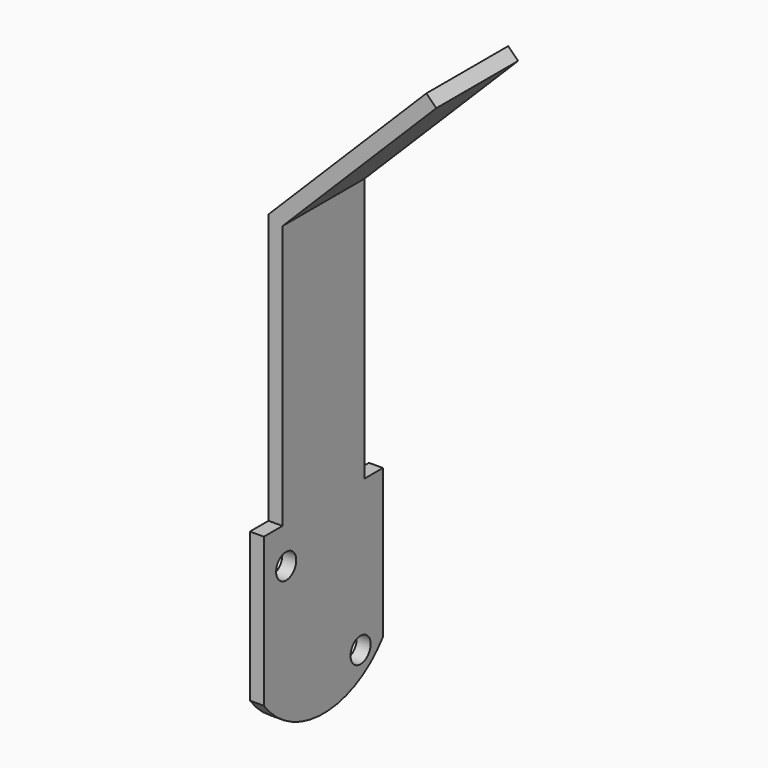
from build123d import *

# Parameters (mm, degrees)
F1_DEPTH = 16
F2_W     = 9.0714404329
F2_H     = 45.9705627485
F2_W_2   = 9.9285595671
F3_DEPTH = 25
F5_DEPTH = 18.0322229203
F6_R     = 1.35
F7_DEPTH = 18.0322229203
F8_DEPTH = 18.0322229203


with BuildPart() as f1:
    # F0 (on Front) → F1 (new body)
    with BuildSketch(Plane.XZ):
        Polygon((0, 49), (0, 0), (1.5, 0), (1.5, 48.3786796564), (18.0312229203, 64.9099025767), (16.9705627485, 65.9705627485), align=None)
    extrude(amount=F1_DEPTH)

    # F2 (on Right) → F3 (cut)
    with BuildSketch(Plane.YZ):
        with Locations((2.0357202164, 42.9852813742)):
            Rectangle(F2_W, F2_H)
        with Locations((-18.4642797836, 42.9852813742)):
            Rectangle(F2_W_2, F2_H)
    extrude(amount=F3_DEPTH, mode=Mode.SUBTRACT)

    # F4 (on face) → F5 (cut, through all)
    with BuildSketch(Plane(origin=(0, 0, 0), x_dir=(0, -1, 0), z_dir=(-1, 0, 0))):
        with BuildLine():
            ThreePointArc((18, 10), (8, 0), (-2, 10))
            Line((-2, 10), (-2, -2.5))
            Line((-2, -2.5), (18, -2.5))
            Line((18, -2.5), (18, 10))
        make_face()
    extrude(amount=-F5_DEPTH, mode=Mode.SUBTRACT)

    # F6 (on face) → F7 (cut, through all)
    with BuildSketch(Plane(origin=(0, 0, 0), x_dir=(0, -1, 0), z_dir=(-1, 0, 0))):
        with Locations((13, 16)):
            Circle(F6_R)
        with Locations((3, 4)):
            Circle(F6_R)
    extrude(amount=-F7_DEPTH, mode=Mode.SUBTRACT)

    # F6 (on face) → F8 (cut, through all)
    with BuildSketch(Plane(origin=(0, 0, 0), x_dir=(0, -1, 0), z_dir=(-1, 0, 0))):
        with Locations((13, 16)):
            Circle(F6_R)
        with Locations((3, 4)):
            Circle(F6_R)
    extrude(amount=-F8_DEPTH, mode=Mode.SUBTRACT)


solid = f1.part
